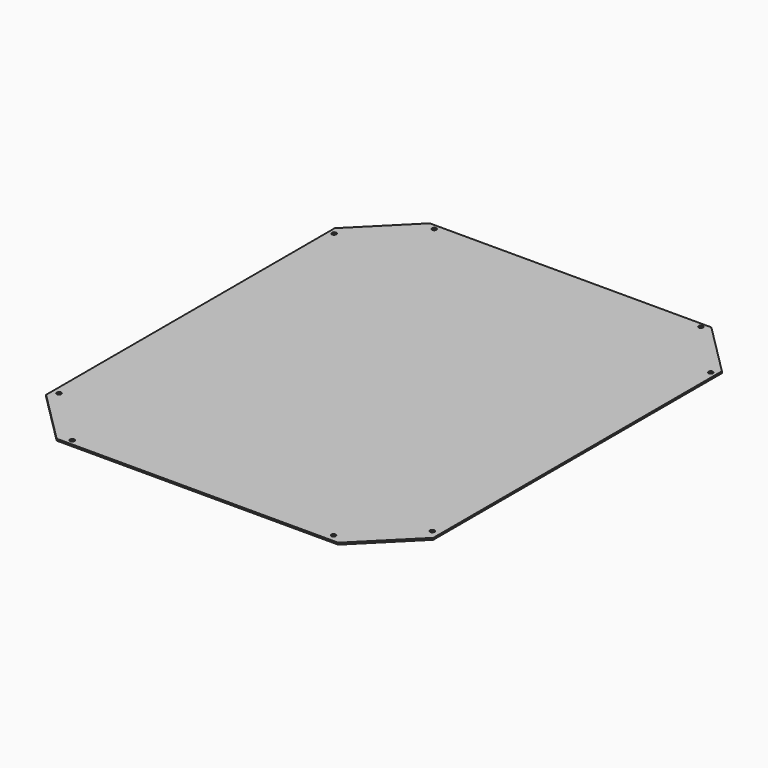
from build123d import *

# Parameters (mm, degrees)
SKETCH_R  = 2.5
PAD_DEPTH = 2


with BuildPart() as part:
    # Sketch → Pad (new body)
    with BuildSketch(Plane.XY):
        Polygon((-166.36368, 259.917405), (153.63632, 259.917405), (213.63632, 199.917405), (213.63632, -210.082595), (153.63632, -270.082595), (-166.36368, -270.082595), (-226.36368, -210.082595), (-226.36368, 199.917405), align=None)
        with Locations((-220.426407, 191.551941)):
            Circle(SKETCH_R, mode=Mode.SUBTRACT)
        with Locations((-156.405304, 253.931473)):
            Circle(SKETCH_R, mode=Mode.SUBTRACT)
        with Locations((145.682602, 255.015823)):
            Circle(SKETCH_R, mode=Mode.SUBTRACT)
        with Locations((-219.194855, -200.60849)):
            Circle(SKETCH_R, mode=Mode.SUBTRACT)
        with Locations((-153.602219, -263.909698)):
            Circle(SKETCH_R, mode=Mode.SUBTRACT)
        with Locations((141.603378, -261.699738)):
            Circle(SKETCH_R, mode=Mode.SUBTRACT)
        with Locations((204.925644, -200.476547)):
            Circle(SKETCH_R, mode=Mode.SUBTRACT)
        with Locations((207.374741, 191.907639)):
            Circle(SKETCH_R, mode=Mode.SUBTRACT)
    extrude(amount=PAD_DEPTH)


solid = part.part
